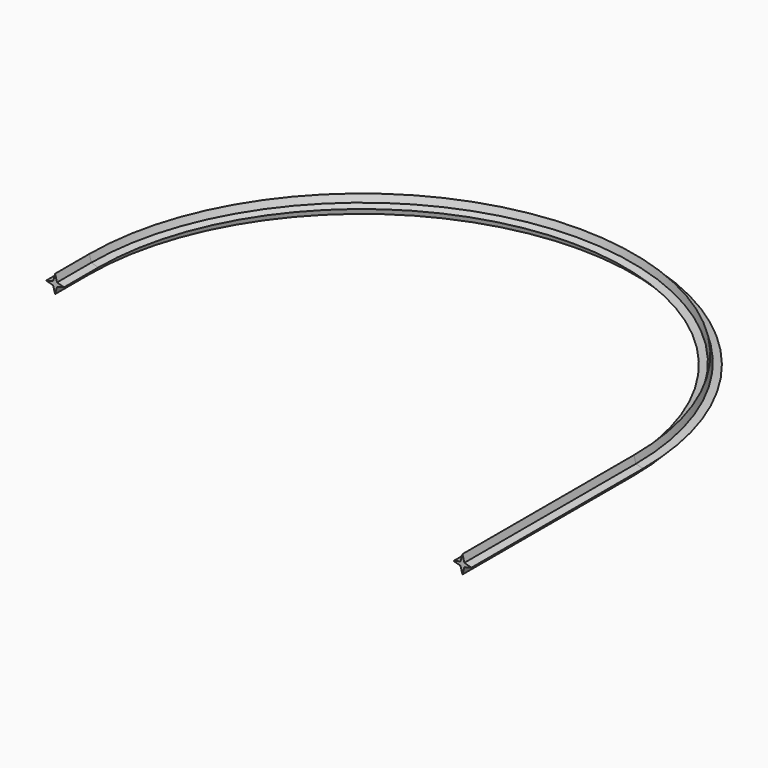
from build123d import *


with BuildPart() as part:
    # AdditivePipe: sweep along a path in Sketch
    with BuildLine(Plane.XY) as additivepipe_path:
        Line((0, 0), (0, 50))
        ThreePointArc((0, 50), (-63.5, 113.5), (-127, 50))
        Line((-127, 50), (-127, 40))
    # Sketch001 → AdditivePipe (sweep)
    with BuildSketch(Plane.XZ):
        Polygon((2.1, 0), (0.449013, 0.449013), (0, 2.1), (-0.449013, 0.449013), (-2.1, 0), (-0.449013, -0.449013), (0, -2.1), (0.449013, -0.449013), align=None)
    sweep(path=additivepipe_path.line)


solid = part.part
